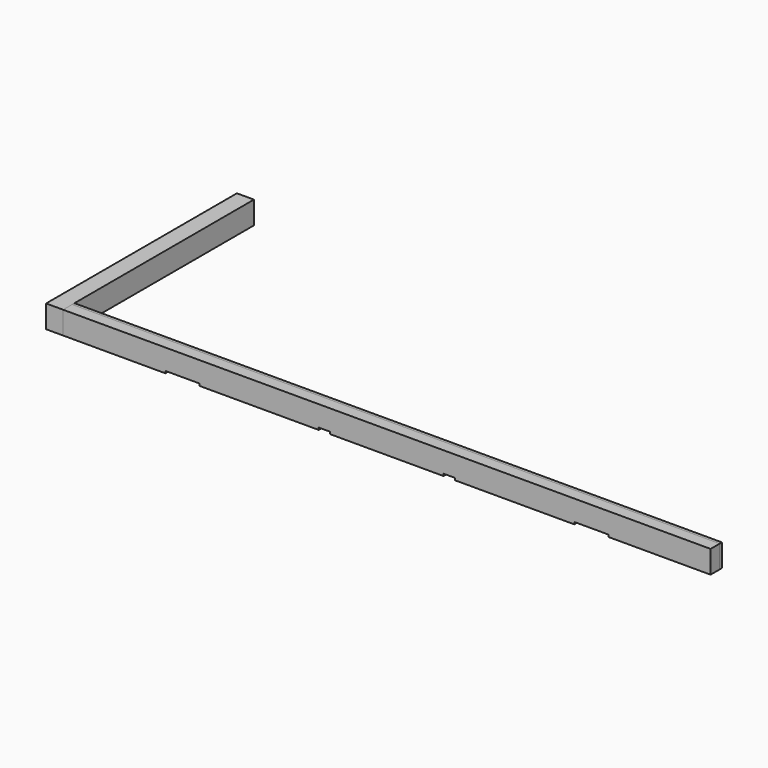
from build123d import *

# Parameters (mm, degrees)
F0_W     = 5791.2
F0_H     = 127
F1_DEPTH = 203.2
F2_W     = 304.8
F2_H     = 127
F2_W_2   = 101.6
F3_DEPTH = 19.05
F4_W     = 5791.2
F4_H     = 101.6
F5_DEPTH = 203.2
F6_DEPTH = 19.05
F7_W     = 152.4
F7_H     = 2133.6
F8_DEPTH = 203.2


with BuildPart() as f1:
    # F0 (on Top) → F1 (new body)
    with BuildSketch(Plane.XY):
        with Locations((2895.6, 63.5)):
            Rectangle(F0_W, F0_H)
    extrude(amount=F1_DEPTH)

    # F2 (on face) → F3 (cut)
    with BuildSketch(Plane(origin=(0, 0, 0), x_dir=(1, 0, 0), z_dir=(0, 0, -1))):
        with Locations((1066.8, -63.5)):
            Rectangle(F2_W, F2_H)
        with Locations((2336.8, -63.5)):
            Rectangle(F2_W_2, F2_H)
        with Locations((3454.4, -63.5)):
            Rectangle(F2_W_2, F2_H)
        with Locations((4724.4, -63.5)):
            Rectangle(F2_W, F2_H)
    extrude(amount=-F3_DEPTH, mode=Mode.SUBTRACT)


with BuildPart() as f5:
    # F4 (on Top) → F5 (new body)
    with BuildSketch(Plane.XY):
        with Locations((2895.6, 50.8)):
            Rectangle(F4_W, F4_H)
    extrude(amount=F5_DEPTH)

    # F2 (on face) → F6 (cut)
    with BuildSketch(Plane(origin=(0, 0, 0), x_dir=(1, 0, 0), z_dir=(0, 0, -1))):
        with Locations((1066.8, -63.5)):
            Rectangle(F2_W, F2_H)
        with Locations((2336.8, -63.5)):
            Rectangle(F2_W_2, F2_H)
        with Locations((3454.4, -63.5)):
            Rectangle(F2_W_2, F2_H)
        with Locations((4724.4, -63.5)):
            Rectangle(F2_W, F2_H)
    extrude(amount=-F6_DEPTH, mode=Mode.SUBTRACT)


with BuildPart() as f8:
    # F7 (on Top) → F8 (new body)
    with BuildSketch(Plane.XY):
        with Locations((-76.2, 1066.8)):
            Rectangle(F7_W, F7_H)
    extrude(amount=F8_DEPTH)


solid = Compound([f1.part, f5.part, f8.part])
